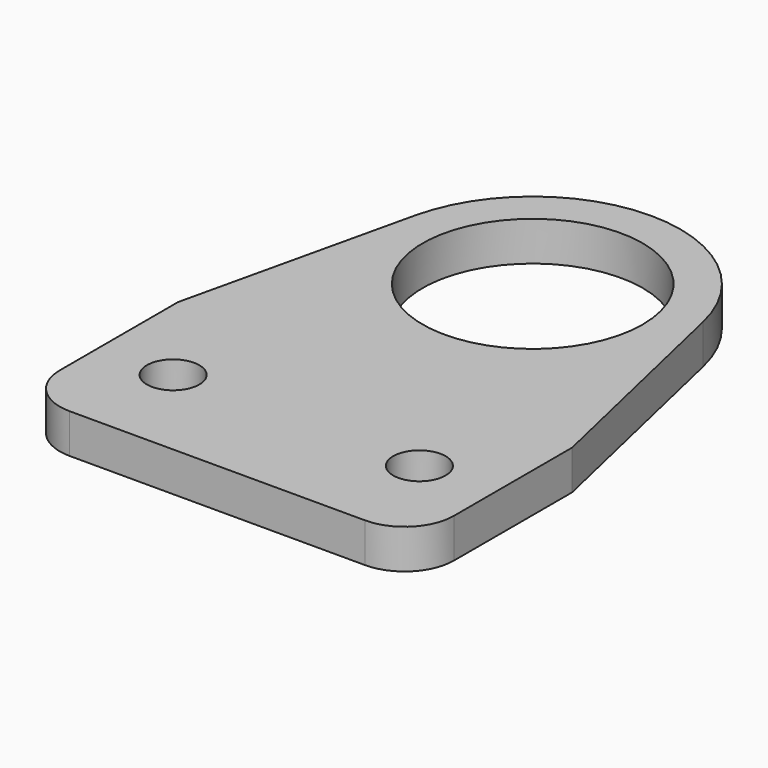
from build123d import *

# Parameters (mm, degrees)
F0_R     = 3.3782
F0_R_2   = 14.1859
F1_DEPTH = 5.08


with BuildPart() as f1:
    # F0 (on Top) → F1 (new body)
    with BuildSketch(Plane.XY):
        with BuildLine():
            Line((-19.05, -12.7), (19.05, -12.7))
            ThreePointArc((19.05, -12.7), (23.540128, -10.840128), (25.4, -6.35))
            Line((25.4, -6.35), (25.4, 12.7))
            Line((25.4, 12.7), (18.563824, 42.376324))
            ThreePointArc((18.563824, 42.376324), (0, 57.15), (-18.563824, 42.376324))
            Line((-18.563824, 42.376324), (-25.4, 12.7))
            Line((-25.4, 12.7), (-25.4, -6.35))
            ThreePointArc((-25.4, -6.35), (-23.540128, -10.840128), (-19.05, -12.7))
        make_face()
        with Locations((-15.875, 0)):
            Circle(F0_R, mode=Mode.SUBTRACT)
        with Locations((15.875, 0)):
            Circle(F0_R, mode=Mode.SUBTRACT)
        with Locations((0, 38.1)):
            Circle(F0_R_2, mode=Mode.SUBTRACT)
    extrude(amount=F1_DEPTH)


solid = f1.part
